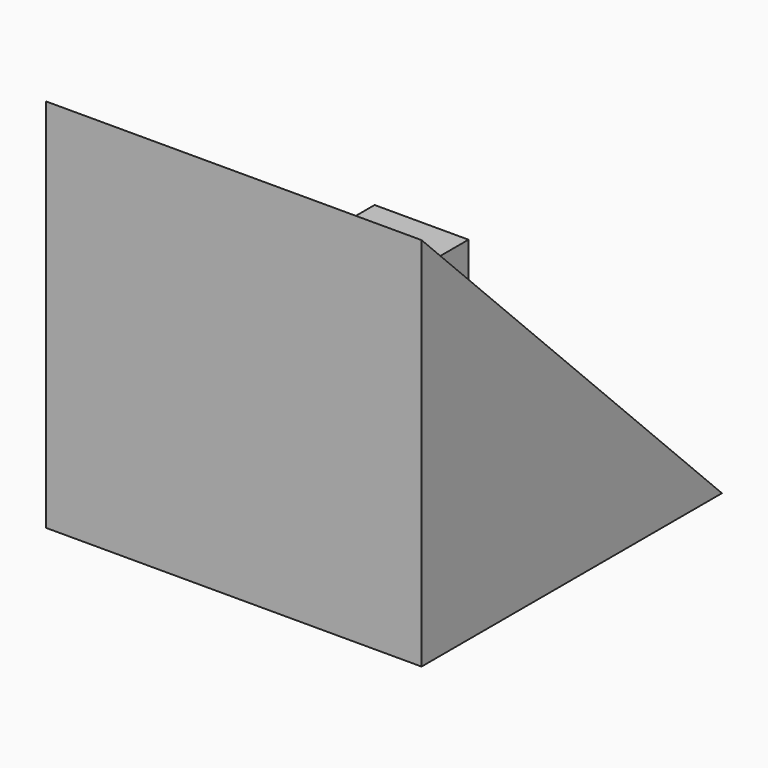
from build123d import *

# Parameters (mm, degrees)
F1_DEPTH = 20
F2_DEPTH = 5


with BuildPart() as f1:
    # F0 (on Right) → F1 (new body, symmetric)
    with BuildSketch(Plane.YZ):
        Polygon((-5, 5), (-20, 20), (-20, -20), (20, -20), (5, -5), (-5, -5), align=None)
        Polygon((5, -5), (-5, 5), (-5, -5), align=None)
    extrude(amount=F1_DEPTH, both=True)

    # F0 (on Right) → F2 (join, symmetric)
    with BuildSketch(Plane.YZ):
        Polygon((5, 5), (-5, 5), (5, -5), align=None)
    extrude(amount=F2_DEPTH, both=True)


solid = f1.part
